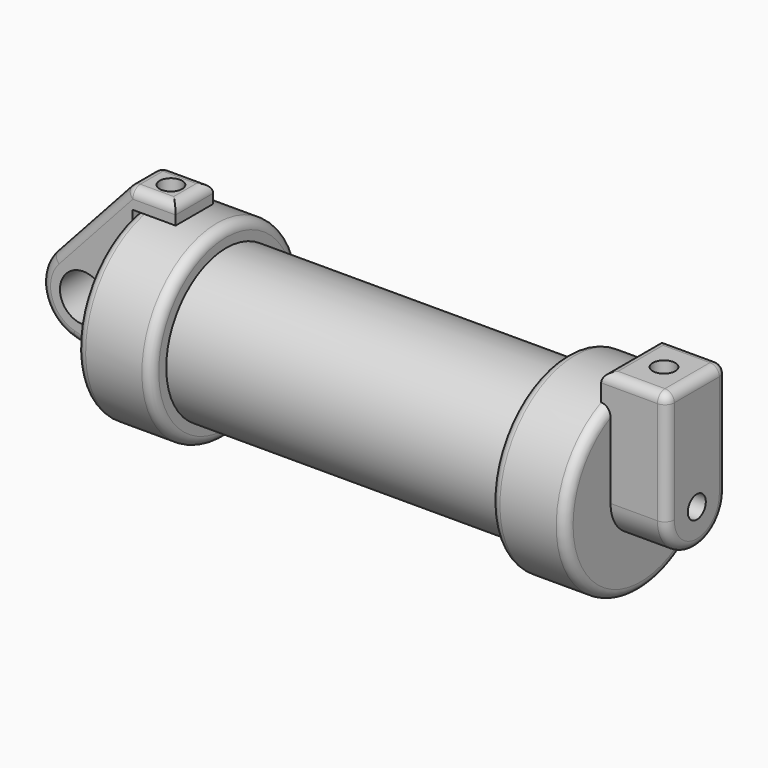
from build123d import *

# Parameters (mm, degrees)
F0_W          = 5.842
F0_H          = 12.7
F0_R          = 3.175
F2_DEPTH      = 3.175
F3_R          = 1.524
F4_DEPTH      = 7.62
F4_DEPTH_BACK = 1.27
F5_R          = 1.524
F6_DEPTH      = 10.414
F7_R          = 1.524
F8_DEPTH      = 17.78
F9_R          = 1.27
F9_2_R        = 1.27


with BuildPart() as f1:
    # F0 (on Front) → F1 (revolve)
    with BuildSketch(Plane.XZ):
        Polygon((5.842, 12.7), (5.842, 0), (66.294, 0), (66.294, 12.7), (56.134, 12.7), (56.134, 10.16), (10.16, 10.16), (10.16, 12.7), align=None)
        with Locations((2.921, 6.35)):
            Rectangle(F0_W, F0_H)
    revolve(axis=Axis((33.147, 0, 0), (-1, 0, 0)))

    # F3 (on face) → F4 (join, two sides)
    with BuildSketch(Plane.YZ.offset(66.294)) as f4_sk:
        with BuildLine():
            ThreePointArc((-5.08, 0), (0, -5.08), (5.08, 0))
            ThreePointArc((5.08, 0), (0, 5.08), (-5.08, 0))
        make_face()
        Circle(F3_R, mode=Mode.SUBTRACT)
        with BuildLine():
            ThreePointArc((-5.08, 0), (0, 5.08), (5.08, 0))
            Line((5.08, 0), (5.08, 15.24))
            Line((5.08, 15.24), (-5.08, 15.24))
            Line((-5.08, 15.24), (-5.08, 0))
        make_face()
    extrude(amount=F4_DEPTH)
    extrude(f4_sk.sketch, amount=-F4_DEPTH_BACK)

    # F5 (on face) → F6 (cut)
    with BuildSketch(Plane.XY.offset(15.24)):
        with Locations((69.469, 0)):
            Circle(F5_R)
    extrude(amount=-F6_DEPTH, mode=Mode.SUBTRACT)

    # F9#2
    f9_2_edges = [f1.edges().sort_by_distance(p)[0] for p in [
        (0, 0, -12.7),
        (10.16, 0, -12.7),
        (56.134, 0, -12.7),
        (66.294, 0, -12.7),
        (69.469, 5.08, 15.24),
        (65.024, 0, 15.24),
        (73.914, 5.08, 7.62),
        (73.914, 0, 15.24),
        (69.469, -5.08, 15.24),
    ]]
    fillet(f9_2_edges, radius=F9_2_R)


with BuildPart() as f2:
    # F0 (on Front) → F2 (new body, symmetric)
    with BuildSketch(Plane.XZ):
        with BuildLine():
            ThreePointArc((-8.1826630726, -5.5069827884), (-3.1957909266, -4.5493385486), (-0.9398, 0))
            ThreePointArc((-0.9398, 0), (-4.5919612295, 5.3297205562), (-10.8806298187, 3.8475430269))
            ThreePointArc((-10.8806298187, 3.8475430269), (-12.1459778134, -1.5837270034), (-8.1826630726, -5.5069827884))
        make_face()
        with Locations((-6.6548, 0)):
            Circle(F0_R, mode=Mode.SUBTRACT)
        with BuildLine():
            Line((-0.9398, 0), (0, 0))
            Line((0, 0), (0, 12.7))
            Line((0, 12.7), (5.842, 12.7))
            Line((5.842, 12.7), (5.842, 15.24))
            Line((5.842, 15.24), (-0.508, 15.24))
            Line((-0.508, 15.24), (-10.8806298187, 3.8475430269))
            ThreePointArc((-10.8806298187, 3.8475430269), (-4.5919612295, 5.3297205562), (-0.9398, 0))
        make_face()
        with BuildLine():
            Line((5.842, 0), (0, 0))
            Line((0, 0), (-0.9398, 0))
            ThreePointArc((-0.9398, 0), (-3.1957909266, -4.5493385486), (-8.1826630726, -5.5069827884))
            Line((-8.1826630726, -5.5069827884), (5.842, -9.398))
            Line((5.842, -9.398), (5.842, 0))
        make_face()
    extrude(amount=F2_DEPTH, both=True)

    # F7 (on face) → F8 (cut)
    with BuildSketch(Plane.XY.offset(15.24)):
        with Locations((2.667, 0)):
            Circle(F7_R)
    extrude(amount=-F8_DEPTH, mode=Mode.SUBTRACT)

    # F9
    f9_edges = [f2.edges().sort_by_distance(p)[0] for p in [
        (-5.694315, 3.175, 9.543772),
        (2.667, 3.175, 15.24),
        (-0.508, 0, 15.24),
        (2.667, -3.175, 15.24),
        (5.842, 0, 15.24),
        (-5.694315, -3.175, 9.543772),
    ]]
    fillet(f9_edges, radius=F9_R)


solid = Compound([f1.part, f2.part])
